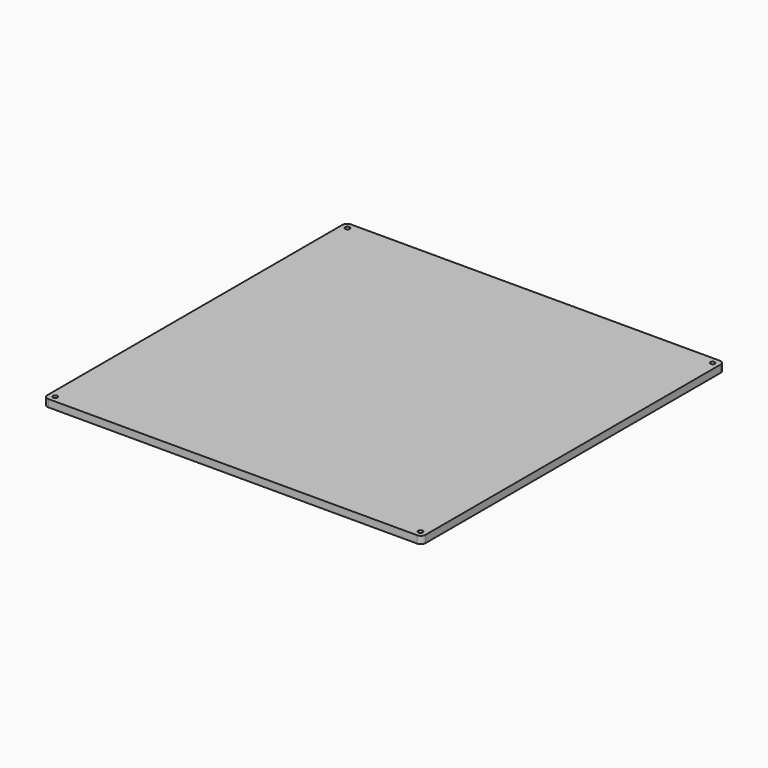
from build123d import *

# Parameters (mm, degrees)
F0_W     = 410
F0_H     = 410
F0_R     = 2.5
F1_DEPTH = 8
F2_R     = 5
F3_W     = 350
F3_H     = 350
F4_DEPTH = 1


with BuildPart() as f1:
    # F0 (on Top) → F1 (new body)
    with BuildSketch(Plane.XY):
        Rectangle(F0_W, F0_H)
        with Locations((-198, -198)):
            Circle(F0_R, mode=Mode.SUBTRACT)
        with Locations((198, -198)):
            Circle(F0_R, mode=Mode.SUBTRACT)
        with Locations((-198, 198)):
            Circle(F0_R, mode=Mode.SUBTRACT)
        with Locations((198, 198)):
            Circle(F0_R, mode=Mode.SUBTRACT)
    extrude(amount=F1_DEPTH)

    # F2
    f2_edges = [f1.edges().sort_by_distance(p)[0] for p in [
        (-205, -205, 4),
        (205, -205, 4),
        (205, 205, 4),
        (-205, 205, 4),
    ]]
    fillet(f2_edges, radius=F2_R)


with BuildPart() as f4:
    # F3 (on face) → F4 (new body)
    with BuildSketch(Plane(origin=(0, 0, 0), x_dir=(1, 0, 0), z_dir=(0, 0, -1))):
        Rectangle(F3_W, F3_H)
    extrude(amount=F4_DEPTH)


solid = Compound([f1.part, f4.part])
